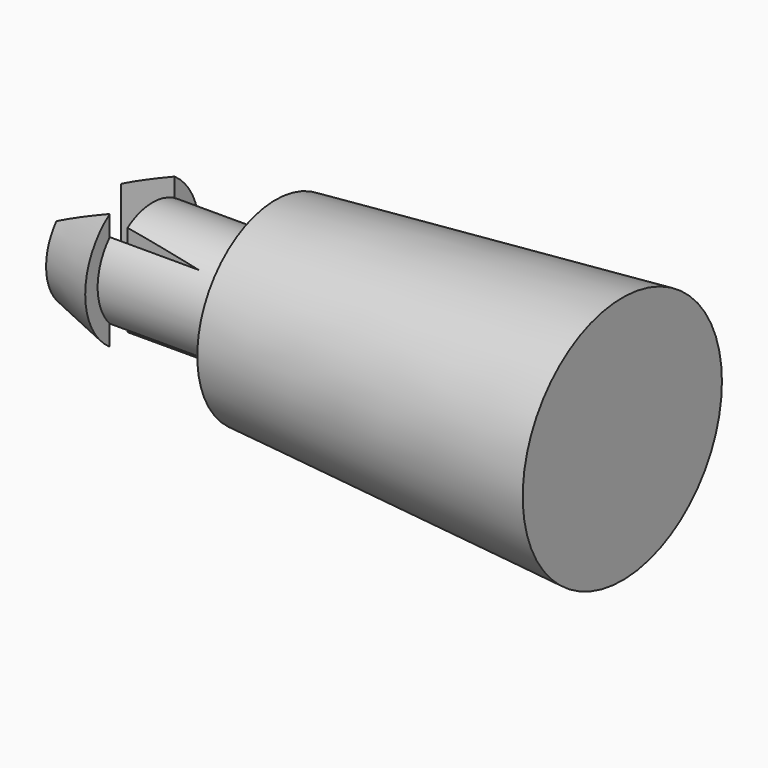
from build123d import *

# Parameters (mm, degrees)
F8_DEPTH = 25


with BuildPart() as f2:
    # F1 (on Top) → F2 (revolve)
    with BuildSketch(Plane.XY):
        Polygon((0, 11), (0, 0), (39, 0), (39, 14), align=None)
    revolve(axis=Axis((3.167361, 0, 0), (1, 0, 0)))

    # F3 (on Top) → F4 (revolve)
    with BuildSketch(Plane.XY):
        Polygon((-15, 0), (0, 0), (0, 1.084316), (0, 6.25), (-15, 6.25), align=None)
    revolve(axis=Axis((-7.5, 0, 0), (-1, 0, 0)))

    # F5 (on Top) → F6 (revolve)
    with BuildSketch(Plane.XY):
        Polygon((-21, 0), (-15, 0), (-15, 8), (-21, 6), align=None)
    revolve(axis=Axis((-18, 0, 0), (-1, 0, 0)))

    # F7 (on Top) → F8 (cut, symmetric)
    with BuildSketch(Plane.XY):
        Polygon((-4.999509, 4.5511), (-23.682378, 4.5511), (-23.776263, 0), (-13.824584, 0), (-13.824584, 3.518378), align=None)
        Polygon((-13.824584, 0), (-23.776263, 0), (-23.682378, -4.5511), (-4.999509, -4.5511), (-13.824584, -3.518378), align=None)
    extrude(amount=F8_DEPTH, both=True, mode=Mode.SUBTRACT)


solid = f2.part
